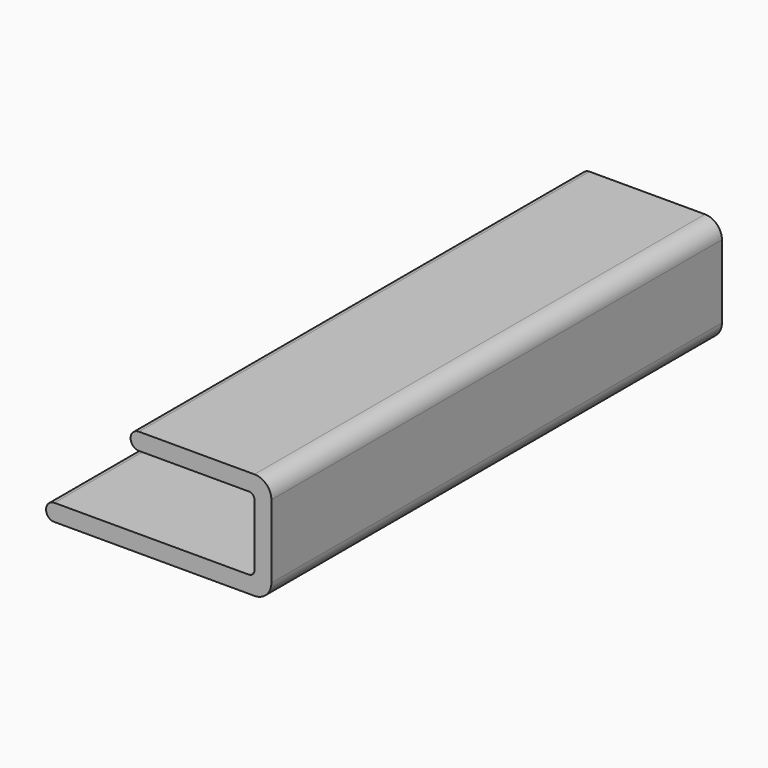
from build123d import *

# Parameters (mm, degrees)
F1_DEPTH = 100


with BuildPart() as f1:
    # F0 (on Front) → F1 (new body)
    with BuildSketch(Plane.XZ):
        with BuildLine():
            Line((1.99592, 6.5), (21.49592, 6.5))
            ThreePointArc((21.49592, 6.5), (22.203027, 6.207107), (22.49592, 5.5))
            Line((22.49592, 5.5), (22.49592, -5.5))
            ThreePointArc((22.49592, -5.5), (22.203027, -6.207107), (21.49592, -6.5))
            Line((21.49592, -6.5), (-13.00408, -6.5))
            ThreePointArc((-13.00408, -6.5), (-14.050214, -6.92501), (-14.503525, -7.959196))
            Line((-14.503525, -7.959196), (-14.504665, -8.00111))
            ThreePointArc((-14.504665, -8.00111), (-14.196328, -8.95365), (-13.357338, -9.5))
            Line((-13.357338, -9.5), (22.49592, -9.5))
            ThreePointArc((22.49592, -9.5), (24.617241, -8.62132), (25.49592, -6.5))
            Line((25.49592, -6.5), (25.49592, 5.5))
            Line((25.49592, 5.5), (25.49592, 6.5))
            ThreePointArc((25.49592, 6.5), (24.617241, 8.62132), (22.49592, 9.5))
            Line((22.49592, 9.5), (1.99592, 9.5))
            ThreePointArc((1.99592, 9.5), (0.93526, 9.06066), (0.49592, 8))
            ThreePointArc((0.49592, 8), (0.93526, 6.93934), (1.99592, 6.5))
        make_face()
    extrude(amount=F1_DEPTH)


solid = f1.part
